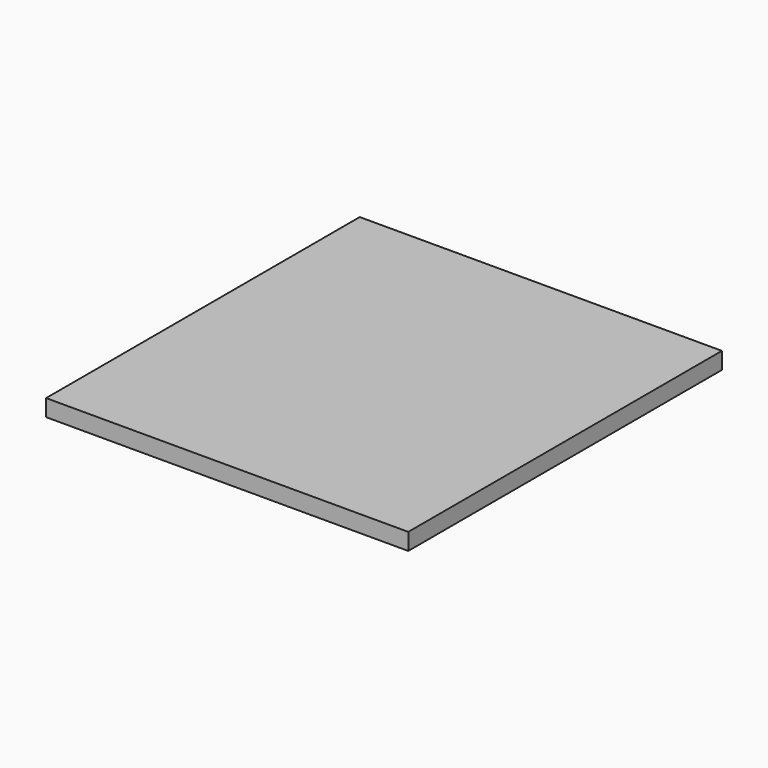
from build123d import *

# Parameters (mm, degrees)
SKETCH_W  = 388
SKETCH_H  = 420
PAD_DEPTH = 18


with BuildPart() as part:
    # Sketch → Pad (new body)
    with BuildSketch(Plane.XY):
        with Locations((-194, 210)):
            Rectangle(SKETCH_W, SKETCH_H)
    extrude(amount=PAD_DEPTH)


solid = part.part
